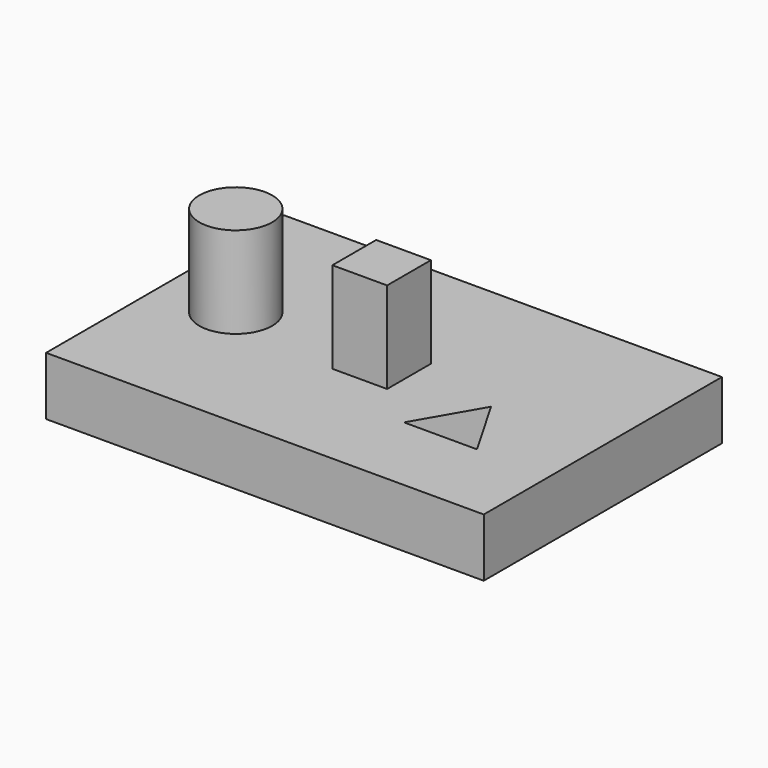
from build123d import *

# Parameters (mm, degrees)
F0_R     = 12.7
F0_W     = 19.05
F0_H     = 19.05
F1_DEPTH = 31.75
F0_W_2   = 152.4
F0_H_2   = 103.662882
F2_DEPTH = 20.32
F3_DEPTH = 20.32


with BuildPart() as f1:
    # F0 (on Top) → F1 (new body)
    with BuildSketch(Plane.XY):
        with Locations((-82.55, 0)):
            Circle(F0_R)
        with Locations((-31.75, 0)):
            Rectangle(F0_W, F0_H)
    extrude(amount=F1_DEPTH)


with BuildPart() as f2:
    # F0 (on Top) → F2 (new body)
    with BuildSketch(Plane.XY):
        with Locations((-31.75, 1.031441)):
            Rectangle(F0_W_2, F0_H_2)
        with Locations((-82.55, 0)):
            Circle(F0_R, mode=Mode.SUBTRACT)
        with Locations((-31.75, 0)):
            Rectangle(F0_W, F0_H, mode=Mode.SUBTRACT)
        Polygon((-6.35, -21.997045), (6.35, 0), (19.05, -21.997045), align=None, mode=Mode.SUBTRACT)
    extrude(amount=-F2_DEPTH)


with BuildPart() as f3:
    # F0 (on Top) → F3 (new body)
    with BuildSketch(Plane.XY):
        with Locations((-82.55, 0)):
            Circle(F0_R)
        with Locations((-31.75, 0)):
            Rectangle(F0_W, F0_H)
    extrude(amount=-F3_DEPTH)


solid = Compound([f1.part, f2.part, f3.part])
